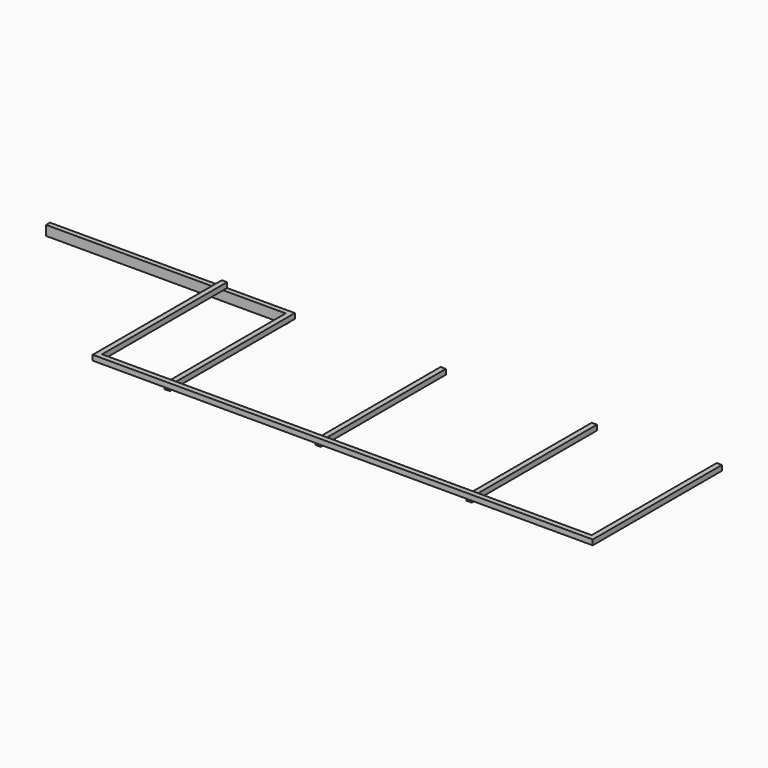
from build123d import *

# Parameters (mm, degrees)
F0_W     = 25.4
F0_H     = 762
F1_DEPTH = 25.4
F2_W     = 1168.4
F2_H     = 23.8125
F3_DEPTH = 47.625
F4_W     = 25.4
F4_H     = 762
F5_DEPTH = 25.4


with BuildPart() as f1:
    # F0 (on Top) → F1 (new body)
    with BuildSketch(Plane.XY):
        Polygon((-1186.006427, -787.4), (1252.393573, -787.4), (1252.393573, -762), (1226.993573, -762), (-1160.606427, -762), (-1186.006427, -762), align=None)
        with Locations((1239.693573, -381)):
            Rectangle(F0_W, F0_H)
        with Locations((-1173.306427, -381)):
            Rectangle(F0_W, F0_H)
    extrude(amount=F1_DEPTH)

    # F2 (on Top) → F3 (join)
    with BuildSketch(Plane.XY):
        with Locations((-1440.006427, -11.90625)):
            Rectangle(F2_W, F2_H)
    extrude(amount=-F3_DEPTH)

    # F4 (on Top) → F5 (join)
    with BuildSketch(Plane.XY):
        with Locations((-106.506427, -381)):
            Rectangle(F4_W, F4_H)
        with Locations((630.093573, -381)):
            Rectangle(F4_W, F4_H)
        Polygon((-830.406427, 0), (-855.806427, 0), (-855.806427, -762.142062), (-830.406427, -762), align=None)
    extrude(amount=-F5_DEPTH)


solid = f1.part
